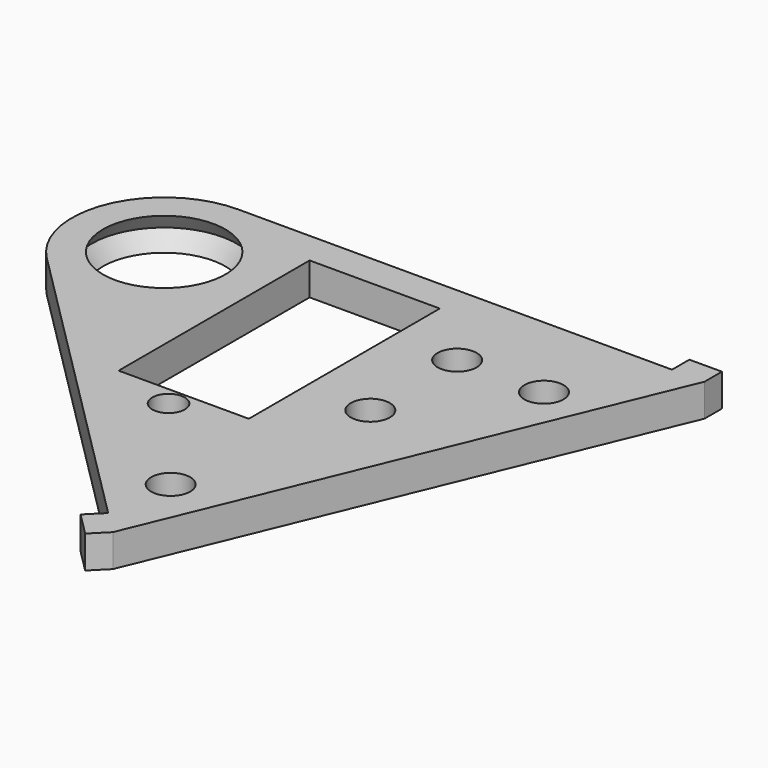
from build123d import *

# Parameters (mm, degrees)
SKETCH182_R     = 1.5
SKETCH182_W     = 22
SKETCH182_H     = 12
PAD127029_DEPTH = 17.5
SKETCH153_R     = 8
SKETCH153_R_2   = 1.8
PAD119_DEPTH    = 3


with BuildPart() as pad127029:
    # Sketch182 → Pad127029 (new body, symmetric)
    with BuildSketch(Plane(origin=(35, 160, 12), x_dir=(0, 1, 0), z_dir=(0, 0, 1))):
        with Locations((-18.25, 0)):
            Circle(SKETCH182_R)
        with Locations((-5.5, 0)):
            Rectangle(SKETCH182_W, SKETCH182_H)
    extrude(amount=PAD127029_DEPTH, both=True)


with BuildPart() as frontwheelbaseplate:
    # Sketch153 → Pad119 (new body)
    with BuildSketch(Plane(origin=(50, 160, 8.5), x_dir=(1, 0, 0), z_dir=(0, 0, 1))):
        with BuildLine():
            ThreePointArc((6.010433, -6.010382), (7.852969, 3.252826), (0, 8.5))
            Line((0, 8.5), (-40, 8.5))
            Line((-40, 8.5), (-40, 10.5))
            Line((-40, 10.5), (-43, 10.5))
            Line((-43, 10.5), (-43, 8.5))
            Line((-43, 8.5), (-24.395158, -36.415973))
            Line((-24.395158, -36.415973), (-22.980945, -37.830187))
            Line((-22.980945, -37.830187), (-20.859624, -35.708867))
            Line((-20.859624, -35.708867), (-22.273838, -34.294653))
            Line((6.010433, -6.010382), (-22.273838, -34.294653))
        make_face()
        Circle(SKETCH153_R, mode=Mode.SUBTRACT)
        with Locations((-27, 0)):
            Circle(SKETCH153_R_2, mode=Mode.SUBTRACT)
        with Locations((-27, -10)):
            Circle(SKETCH153_R_2, mode=Mode.SUBTRACT)
        with Locations((-23, -28)):
            Circle(SKETCH153_R_2, mode=Mode.SUBTRACT)
        with Locations((-35, 0)):
            Circle(SKETCH153_R_2, mode=Mode.SUBTRACT)
    extrude(amount=PAD119_DEPTH)


with BuildPart() as steeringbaseplate:
    # Sketch151 → Revolution007 (revolve)
    with BuildSketch(Plane(origin=(50, 160, 10), x_dir=(1, 0, 0), z_dir=(0, -1, 0))):
        Polygon((5.634953, 1.5), (6.685264, 0), (5.634953, -1.5), (8, -1.5), (8, 1.5), align=None)
    revolve(axis=Axis((50, 160, 10), (0, 0, 1)))

    # Fusion004020020: union FrontWheelBasePlate
    add(frontwheelbaseplate.part)

    # Cut007019020: cut Pad127029
    add(pad127029.part, mode=Mode.SUBTRACT)


with BuildPart() as part_mirroring011:
    # Part__Mirroring011: instance of SteeringBasePlate
    add(steeringbaseplate.part.mirror(Plane(origin=(0, 0, 0), x_dir=(0, -1, 0), z_dir=(1, 0, 0))))


solid = part_mirroring011.part
